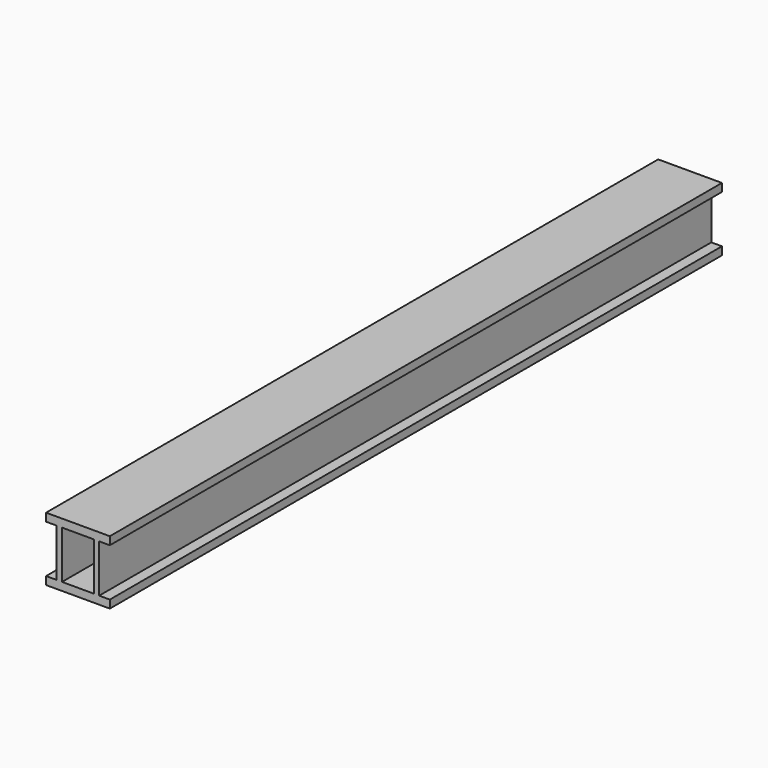
from build123d import *

# Parameters (mm, degrees)
F1_DEPTH = 3657.6


with BuildPart() as f1:
    # F0 (on Front) → F1 (new body)
    with BuildSketch(Plane.XZ):
        Polygon((0, 38.1), (0, 0), (304.8, 0), (304.8, 38.1), (254, 38.1), (254, 25.4), (228.6, 25.4), (228.6, 38.1), (76.2, 38.1), (76.2, 25.4), (50.8, 25.4), (50.8, 38.1), align=None)
        Polygon((50.8, 266.7), (50.8, 38.1), (50.8, 25.4), (76.2, 25.4), (76.2, 38.1), (76.2, 266.7), (76.2, 279.4), (50.8, 279.4), align=None)
        Polygon((254, 25.4), (254, 38.1), (254, 266.7), (254, 279.4), (228.6, 279.4), (228.6, 266.7), (228.6, 38.1), (228.6, 25.4), align=None)
        Polygon((0, 266.7), (50.8, 266.7), (50.8, 279.4), (76.2, 279.4), (76.2, 266.7), (228.6, 266.7), (228.6, 279.4), (254, 279.4), (254, 266.7), (304.8, 266.7), (304.8, 304.8), (0, 304.8), align=None)
    extrude(amount=F1_DEPTH)


solid = f1.part
